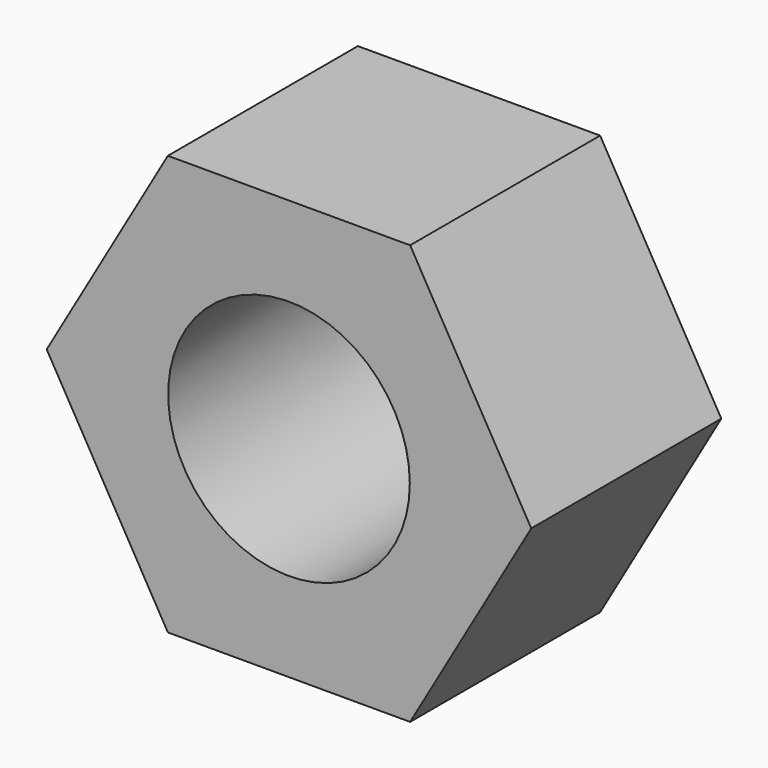
from build123d import *

# Parameters (mm, degrees)
F1_DEPTH = 15
F2_R     = 7.63
F3_DEPTH = 15.001


with BuildPart() as f1:
    # F0 (on Front) → F1 (new body)
    with BuildSketch(Plane.XZ):
        Polygon((-7.649891, 13.25), (-15.299782, 0), (-7.649891, -13.25), (7.649891, -13.25), (15.299782, 0), (7.649891, 13.25), align=None)
    extrude(amount=F1_DEPTH)

    # F2 (on face) → F3 (cut, through all)
    with BuildSketch(Plane.XZ.offset(15)):
        Circle(F2_R)
    extrude(amount=-F3_DEPTH, mode=Mode.SUBTRACT)


solid = f1.part
